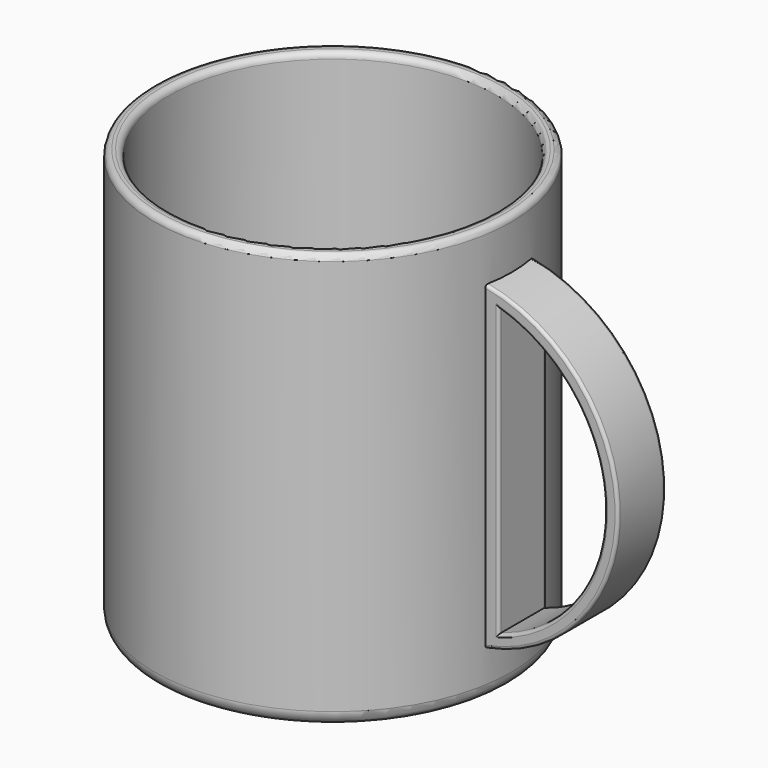
from build123d import *

# Parameters (mm, degrees)
F0_R     = 60
F1_DEPTH = 140
F2_T     = -5
F3_R     = 2
F5_DEPTH = 10
F7_DEPTH = 54
F8_R     = 1
F9_R     = 5


with BuildPart() as f1:
    # F0 (on Top) → F1 (new body)
    with BuildSketch(Plane.XY):
        Circle(F0_R)
    extrude(amount=F1_DEPTH)

    # F2
    f2_openings = [f1.faces().sort_by_distance(p)[0] for p in [
        (0, 0, 140),
    ]]
    offset(amount=F2_T, openings=f2_openings)

    # F3
    f3_edges = [f1.edges().sort_by_distance(p)[0] for p in [
        (-55, 0, 140),
        (-60, 0, 140),
    ]]
    fillet(f3_edges, radius=F3_R)

    # F4 (on Front) → F5 (join, symmetric)
    with BuildSketch(Plane.XZ):
        with BuildLine():
            Line((57.7629804611, 123.5093176365), (57.7629804611, 15.4400020838))
            ThreePointArc((57.7629804611, 15.4400020838), (103.710291096, 69.4746598601), (57.7629804611, 123.5093176365))
        make_face()
    extrude(amount=F5_DEPTH, both=True)

    # F6 (on face) → F7 (cut)
    with BuildSketch(Plane.XZ.offset(10)):
        with BuildLine():
            Line((63.660797831, 117.5236095815), (63.660797831, 21.4257101387))
            ThreePointArc((63.660797831, 21.4257101387), (99.210291096, 69.4746598601), (63.660797831, 117.5236095815))
        make_face()
    extrude(amount=-F7_DEPTH, mode=Mode.SUBTRACT)

    # F8
    f8_edges = [f1.edges().sort_by_distance(p)[0] for p in [
        (99.210291, -10, 69.47466),
        (63.660798, -10, 69.47466),
        (63.660798, 10, 69.47466),
        (99.210291, 10, 69.47466),
        (103.710291, 10, 69.47466),
        (103.710291, -10, 69.47466),
    ]]
    fillet(f8_edges, radius=F8_R)

    # F9
    f9_edges = [f1.edges().sort_by_distance(p)[0] for p in [
        (-60, 0, 0),
    ]]
    fillet(f9_edges, radius=F9_R)


solid = f1.part
